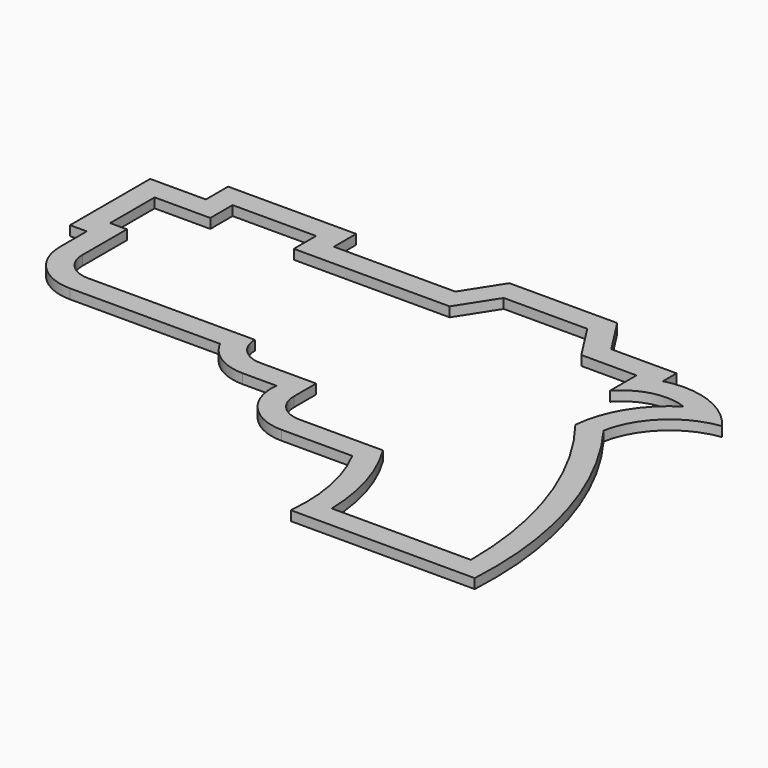
from build123d import *

# Parameters (mm, degrees)
F1_DEPTH = 2.2098


with BuildPart() as f1:
    # F0 (on Top) → F1 (new body)
    with BuildSketch(Plane.XY):
        with BuildLine():
            Line((-49.268814, 54.850598), (-76.971687, 54.850598))
            Line((-76.971687, 54.850598), (-76.971687, 61.200598))
            Line((-76.971687, 61.200598), (-106.181687, 61.200598))
            Line((-106.181687, 61.200598), (-106.181687, 54.850598))
            Line((-106.181687, 54.850598), (-118.881687, 54.850598))
            Line((-118.881687, 54.850598), (-118.881687, 31.990598))
            Line((-118.881687, 31.990598), (-115.059145, 31.990598))
            Line((-115.059145, 31.990598), (-115.059145, 24.370598))
            ThreePointArc((-115.059145, 24.370598), (-111.711376, 16.288368), (-103.629145, 12.940598))
            Line((-103.629145, 12.940598), (-69.418213, 12.940598))
            ThreePointArc((-69.418213, 12.940598), (-65.203284, 8.306966), (-59.179145, 6.590598))
            Line((-59.179145, 6.590598), (-51.488371, 6.590598))
            ThreePointArc((-51.488371, 6.590598), (-48.648564, -2.299402), (-40.129145, -6.109402))
            Line((-40.129145, -6.109402), (-24.014959, -6.109402))
            ThreePointArc((-24.014959, -6.109402), (-20.028504, -17.370681), (-19.487546, -29.304481))
            Line((-19.487546, -29.304481), (22.481449, -29.304481))
            ThreePointArc((22.481449, -29.304481), (18.826755, 1.648605), (4.836249, 29.500285))
            ThreePointArc((4.836249, 29.500285), (10.191672, 39.231094), (20.218953, 44.008419))
            ThreePointArc((20.218953, 44.008419), (11.793317, 50.443192), (1.204081, 50.958689))
            Line((1.204081, 50.958689), (1.204081, 54.850598))
            Line((1.204081, 54.850598), (-13.695522, 54.850598))
            Line((-13.695522, 54.850598), (-19.180041, 63.403121))
            Line((-19.180041, 63.403121), (-43.784295, 63.403121))
            Line((-43.784295, 63.403121), (-49.268814, 54.850598))
        make_face()
        with BuildLine():
            Line((17.544895, -24.224481), (-14.205105, -24.224481))
            ThreePointArc((-14.205105, -24.224481), (-16.08053, -12.16415), (-21.079145, -1.029402))
            Line((-21.079145, -1.029402), (-40.129145, -1.029402))
            ThreePointArc((-40.129145, -1.029402), (-44.619273, 0.83047), (-46.479145, 5.320598))
            Line((-46.479145, 5.320598), (-46.479145, 11.670598))
            Line((-46.479145, 11.670598), (-59.179145, 11.670598))
            ThreePointArc((-59.179145, 11.670598), (-63.669273, 13.53047), (-65.529145, 18.020598))
            Line((-65.529145, 18.020598), (-103.629145, 18.020598))
            ThreePointArc((-103.629145, 18.020598), (-108.119273, 19.88047), (-109.979145, 24.370598))
            Line((-109.979145, 24.370598), (-109.979145, 37.070598))
            Line((-109.979145, 37.070598), (-113.801687, 37.070598))
            Line((-113.801687, 37.070598), (-113.801687, 49.770598))
            Line((-113.801687, 49.770598), (-101.101687, 49.770598))
            Line((-101.101687, 49.770598), (-101.101687, 56.120598))
            Line((-101.101687, 56.120598), (-82.051687, 56.120598))
            Line((-82.051687, 56.120598), (-82.051687, 49.770598))
            Line((-82.051687, 49.770598), (-46.491687, 49.770598))
            Line((-46.491687, 49.770598), (-41.007168, 58.323121))
            Line((-41.007168, 58.323121), (-21.957168, 58.323121))
            Line((-21.957168, 58.323121), (-16.472649, 49.770598))
            Line((-16.472649, 49.770598), (-3.875919, 49.770598))
            Line((-3.875919, 49.770598), (-3.875919, 42.150598))
            ThreePointArc((-3.875919, 42.150598), (2.608543, 46.074031), (10.174282, 45.625519))
            ThreePointArc((10.174282, 45.625519), (2.802737, 38.105), (-0.484488, 28.100399))
            ThreePointArc((-0.484488, 28.100399), (12.911162, 3.447489), (17.544895, -24.224481))
        make_face(mode=Mode.SUBTRACT)
    extrude(amount=F1_DEPTH)


solid = f1.part
